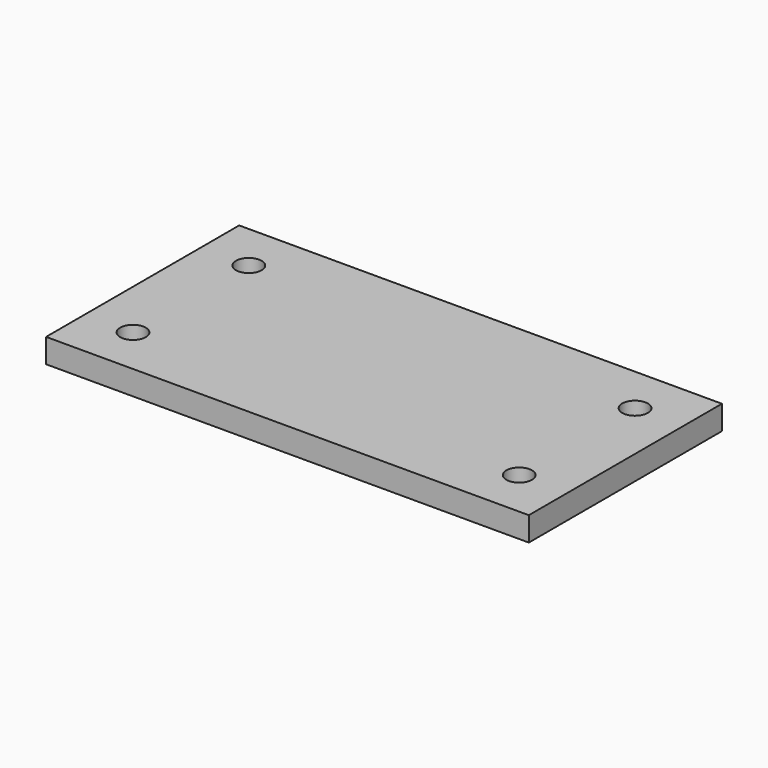
from build123d import *

# Parameters (mm, degrees)
F0_W     = 254
F0_H     = 127
F1_DEPTH = 12.7
F3_D     = 13.49248


with BuildPart() as f1:
    # F0 (on Top) → F1 (new body)
    with BuildSketch(Plane.XY):
        with Locations((-10.6174405664, -3.3515299236)):
            Rectangle(F0_W, F0_H)
    extrude(amount=F1_DEPTH)

    # F3 (through all)
    with Locations(Plane.XY.offset(12.7)):
        with Locations((-112.2174405664, 34.7484700764), (-112.2174405664, -41.4515299236), (90.9825594336, 34.7484700764), (90.9825594336, -41.4515299236)):
            Hole(F3_D / 2)


solid = f1.part
